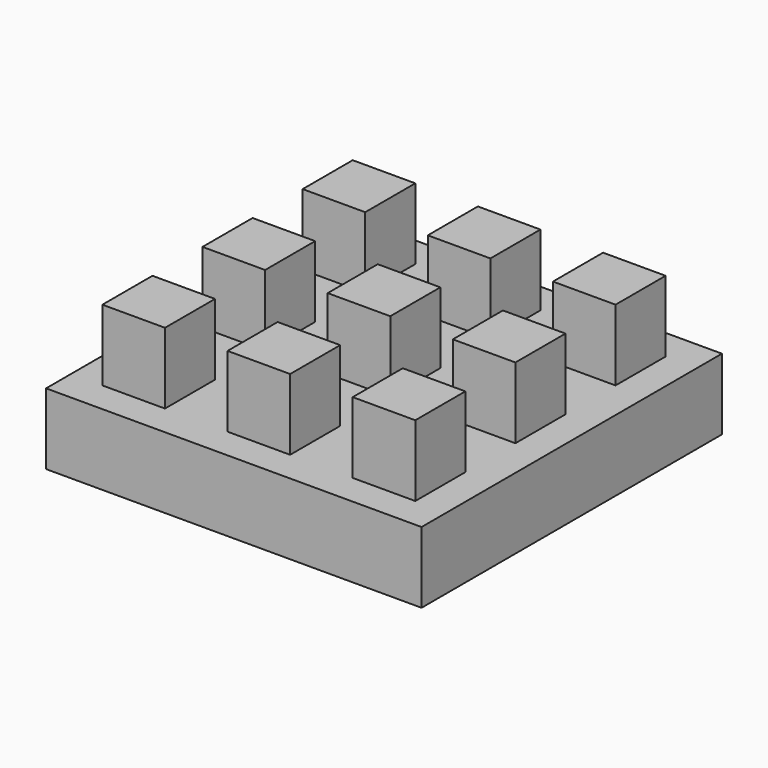
from build123d import *

# Parameters (mm, degrees)
F0_W     = 44
F0_H     = 44
F1_DEPTH = 50
F0_W_2   = 264
F0_H_2   = 264
F4_DEPTH = 50


with BuildPart() as f1:
    # F0 (on Top) → F1 (new body)
    with BuildSketch(Plane.XY):
        with Locations((-88, 0)):
            Rectangle(F0_W, F0_H)
    extrude(amount=F1_DEPTH)


with BuildPart() as f1b:
    # F0 (on Top) → F1, piece 2 (new body)
    with BuildSketch(Plane.XY):
        with Locations((-88, 88)):
            Rectangle(F0_W, F0_H)
    extrude(amount=F1_DEPTH)


with BuildPart() as f1c:
    # F0 (on Top) → F1, piece 3 (new body)
    with BuildSketch(Plane.XY):
        with Locations((0, 88)):
            Rectangle(F0_W, F0_H)
    extrude(amount=F1_DEPTH)


with BuildPart() as f1d:
    # F0 (on Top) → F1, piece 4 (new body)
    with BuildSketch(Plane.XY):
        Rectangle(F0_W, F0_H)
    extrude(amount=F1_DEPTH)


with BuildPart() as f2_1:
    # F2: instance of F1
    add(f1.part.mirror(Plane.YZ))


with BuildPart() as f2_2:
    # F2: instance of F1b
    add(f1b.part.mirror(Plane.YZ))


with BuildPart() as f3_1:
    # F3: instance of F1b
    add(f1b.part.mirror(Plane.XZ))


with BuildPart() as f3_2:
    # F3: instance of F1c
    add(f1c.part.mirror(Plane.XZ))


with BuildPart() as f3_3:
    # F3: instance of F2_2
    add(f2_2.part.mirror(Plane.XZ))


with BuildPart() as f1_1:
    add(f1.part)

    add(f1b.part)  # F4 merges F1b

    add(f1c.part)  # F4 merges F1c

    add(f1d.part)  # F4 merges F1d

    add(f2_1.part)  # F4 merges F2_1

    add(f2_2.part)  # F4 merges F2_2

    add(f3_1.part)  # F4 merges F3_1

    add(f3_2.part)  # F4 merges F3_2

    add(f3_3.part)  # F4 merges F3_3
    # F0 (on Top) → F4 (join)
    with BuildSketch(Plane.XY):
        Rectangle(F0_W_2, F0_H_2)
        with Locations((-88, 0)):
            Rectangle(F0_W, F0_H, mode=Mode.SUBTRACT)
        with Locations((-88, 88)):
            Rectangle(F0_W, F0_H, mode=Mode.SUBTRACT)
        Rectangle(F0_W, F0_H, mode=Mode.SUBTRACT)
        with Locations((0, 88)):
            Rectangle(F0_W, F0_H, mode=Mode.SUBTRACT)
        with Locations((-88, 0)):
            Rectangle(F0_W, F0_H)
        Rectangle(F0_W, F0_H)
        with Locations((-88, 88)):
            Rectangle(F0_W, F0_H)
        with Locations((0, 88)):
            Rectangle(F0_W, F0_H)
    extrude(amount=-F4_DEPTH)


solid = f1_1.part
